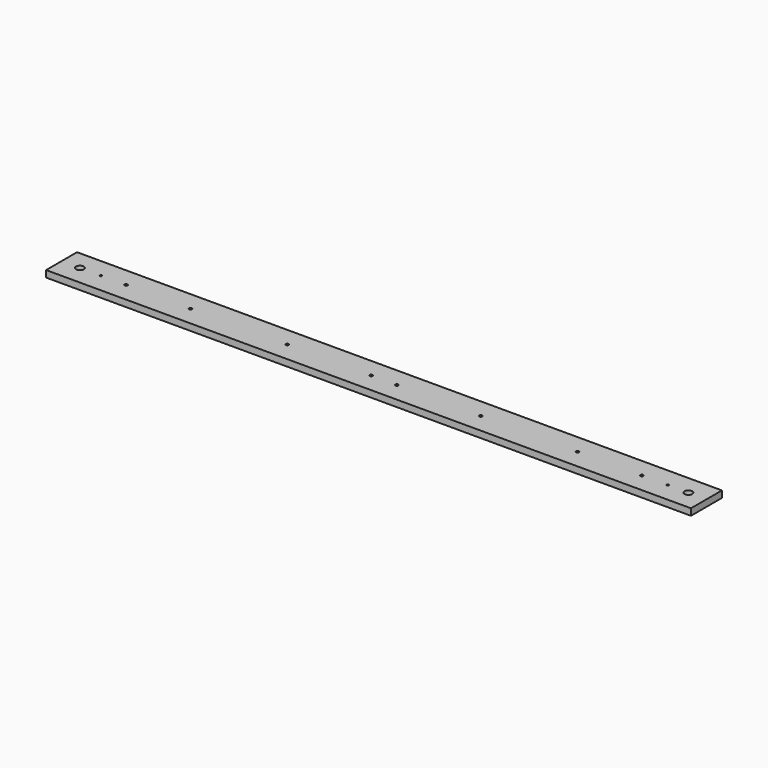
from build123d import *

# Parameters (mm, degrees)
F0_W     = 1000
F0_H     = 60
F0_R     = 6
F0_R_2   = 1.65
F0_R_3   = 2.25
F1_DEPTH = 10.3


with BuildPart() as f1:
    # F0 (on Top) → F1 (new body)
    with BuildSketch(Plane.XY):
        Rectangle(F0_W, F0_H)
        with Locations((-471.5, 0)):
            Circle(F0_R, mode=Mode.SUBTRACT)
        with Locations((-439, 0)):
            Circle(F0_R_2, mode=Mode.SUBTRACT)
        with Locations((-400, 0)):
            Circle(F0_R_3, mode=Mode.SUBTRACT)
        with Locations((-300, 0)):
            Circle(F0_R_3, mode=Mode.SUBTRACT)
        with Locations((-150, 0)):
            Circle(F0_R_3, mode=Mode.SUBTRACT)
        with Locations((-20, 0)):
            Circle(F0_R_3, mode=Mode.SUBTRACT)
        with Locations((20, 0)):
            Circle(F0_R_3, mode=Mode.SUBTRACT)
        with Locations((150, 0)):
            Circle(F0_R_3, mode=Mode.SUBTRACT)
        with Locations((300, 0)):
            Circle(F0_R_3, mode=Mode.SUBTRACT)
        with Locations((400, 0)):
            Circle(F0_R_3, mode=Mode.SUBTRACT)
        with Locations((440, 0)):
            Circle(F0_R_2, mode=Mode.SUBTRACT)
        with Locations((472, 0)):
            Circle(F0_R, mode=Mode.SUBTRACT)
    extrude(amount=F1_DEPTH)


solid = f1.part
